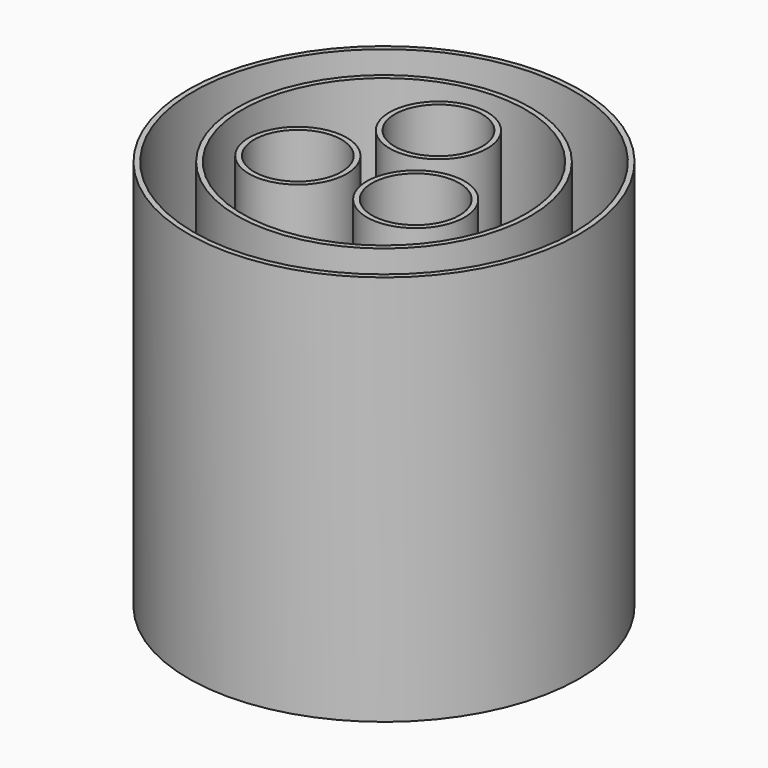
from build123d import *

# Parameters (mm, degrees)
F0_R     = 30
F1_DEPTH = 60
F2_T     = -0.8
F3_R     = 22.5
F4_DEPTH = 59.2
F5_T     = -0.8
F6_R     = 7.5
F7_DEPTH = 58.4
F8_T     = -0.8
F9_COUNT = 3
F9_ANGLE = 240


with BuildPart() as f1:
    # F0 (on Top) → F1 (new body)
    with BuildSketch(Plane.XY):
        Circle(F0_R)
    extrude(amount=F1_DEPTH)

    # F2
    f2_openings = [f1.faces().sort_by_distance(p)[0] for p in [
        (0, 0, 60),
    ]]
    offset(amount=F2_T, openings=f2_openings)


with BuildPart() as f4:
    # F3 (on face) → F4 (new body)
    with BuildSketch(Plane.XY.offset(0.8)):
        Circle(F3_R)
    extrude(amount=F4_DEPTH)

    # F5
    f5_openings = [f4.faces().sort_by_distance(p)[0] for p in [
        (0, 0, 60),
    ]]
    offset(amount=F5_T, openings=f5_openings)


with BuildPart() as f7:
    # F6 (on face) → F7 (new body)
    with BuildSketch(Plane.XY.offset(1.6)):
        with Locations((0, 10.4359593242)):
            Circle(F6_R)
    extrude(amount=F7_DEPTH)

    # F8
    f8_openings = [f7.faces().sort_by_distance(p)[0] for p in [
        (0, 10.435959, 60),
    ]]
    offset(amount=F8_T, openings=f8_openings)


with BuildPart() as f9_1:
    # F9: instance of F7
    add(f7.part.rotate(Axis((0, 0, 0.8), (0, 0, -1)), 1 * F9_ANGLE / (F9_COUNT - 1)))


with BuildPart() as f9_2:
    # F9: instance of F7
    add(f7.part.rotate(Axis((0, 0, 0.8), (0, 0, -1)), 2 * F9_ANGLE / (F9_COUNT - 1)))


solid = Compound([f1.part, f4.part, f7.part, f9_1.part, f9_2.part])
